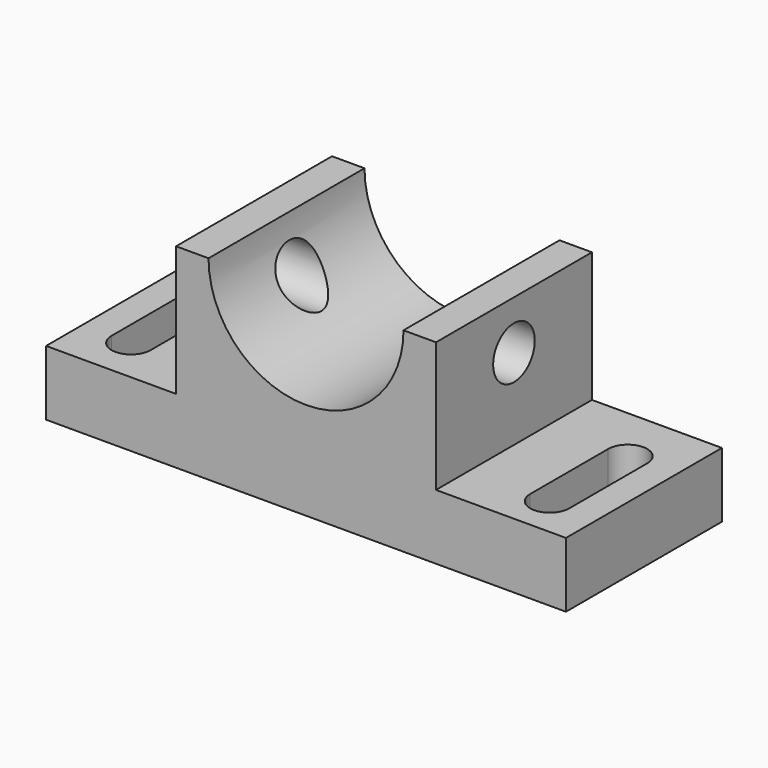
from build123d import *

# Parameters (mm, degrees)
F1_DEPTH = 600
F3_DEPTH = 600.001
F4_R     = 80
F5_DEPTH = 1600.001
F7_DEPTH = 200.001


with BuildPart() as f1:
    # F0 (on Front) → F1 (new body)
    with BuildSketch(Plane.XZ):
        Polygon((-800, -100), (-800, -300), (800, -300), (800, -100), (400, -100), (400, 300), (-400, 300), (-400, -100), align=None)
    extrude(amount=F1_DEPTH)

    # F2 (on face) → F3 (cut, through all)
    with BuildSketch(Plane.XZ.offset(600)):
        with BuildLine():
            Line((300, 300), (-300, 300))
            ThreePointArc((-300, 300), (0, 0), (300, 300))
        make_face()
    extrude(amount=-F3_DEPTH, mode=Mode.SUBTRACT)

    # F4 (on face) → F5 (cut, through all)
    with BuildSketch(Plane.YZ.offset(800)):
        with Locations((-300, 150)):
            Circle(F4_R)
    extrude(amount=-F5_DEPTH, mode=Mode.SUBTRACT)

    # F6 (on face) → F7 (cut, through all)
    with BuildSketch(Plane.XY.offset(-100)):
        with BuildLine():
            Line((590, -174.900037), (590, -474.900037))
            ThreePointArc((590, -474.900037), (650, -534.900037), (710, -474.900037))
            Line((710, -474.900037), (710, -174.900037))
            ThreePointArc((710, -174.900037), (650, -114.900037), (590, -174.900037))
        make_face()
        with BuildLine():
            Line((-710, -160.500002), (-710, -460.500002))
            ThreePointArc((-710, -460.500002), (-650, -520.500002), (-590, -460.500002))
            Line((-590, -460.500002), (-590, -160.500002))
            ThreePointArc((-590, -160.500002), (-650, -100.500002), (-710, -160.500002))
        make_face()
    extrude(amount=-F7_DEPTH, mode=Mode.SUBTRACT)


solid = f1.part
